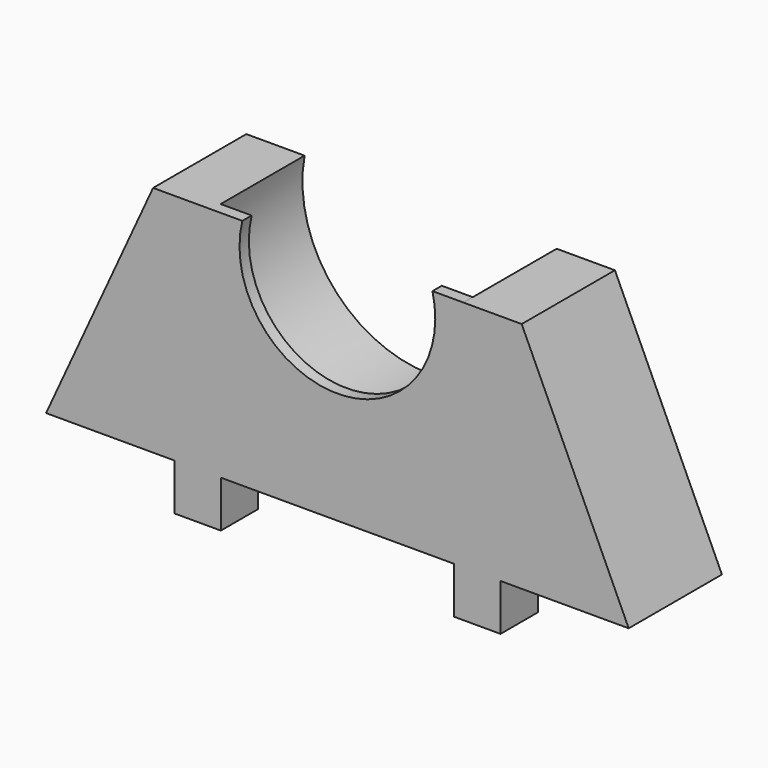
from build123d import *

# Parameters (mm, degrees)
PAD002_DEPTH = 10
PAD001_DEPTH = 1
PAD007_DEPTH = 4


with BuildPart() as body002_bot:
    # Sketch002 → Pad002 (new body)
    with BuildSketch(Plane.XZ):
        with BuildLine():
            ThreePointArc((14.183335, 20), (24.999984, 7), (35.816645, 19.999991))
            Line((40.816645, 19.999991), (35.816645, 19.999991))
            Line((50, 0), (40.816645, 19.999991))
            Line((0, 0), (50, 0))
            Line((9.183335, 20), (0, 0))
            Line((14.183335, 20), (9.183335, 20))
        make_face()
    extrude(amount=-PAD002_DEPTH)


with BuildPart() as body001_bot:
    # Sketch001 → Pad001 (new body)
    with BuildSketch(Plane.XZ):
        with BuildLine():
            ThreePointArc((16.841546, 20), (24.999965, 9.6), (33.158414, 19.999976))
            Line((38.158414, 19.999976), (33.158414, 19.999976))
            Line((50, 0), (38.158414, 19.999976))
            Line((0, 0), (50, 0))
            Line((11.841546, 20), (0, 0))
            Line((16.841546, 20), (11.841546, 20))
        make_face()
    extrude(amount=-PAD001_DEPTH)

    # Boolean001: union Body002_bot
    add(body002_bot.part)

    # Sketch007 → Pad007 (join)
    with BuildSketch(Plane.XZ):
        Polygon((11, -4), (11, 4.332914), (39, 4.332914), (39, -4), (35, -4), (35, 0), (15, 0), (15, -4), align=None)
    extrude(amount=-PAD007_DEPTH)


solid = body001_bot.part
